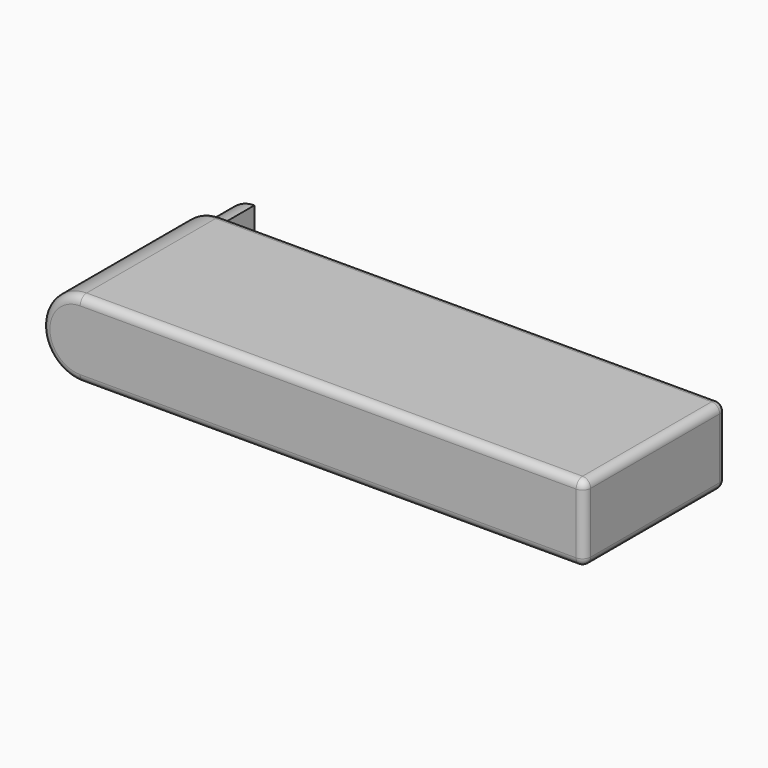
from build123d import *

# Parameters (mm, degrees)
F1_DEPTH = 44
F2_R     = 2
F4_DEPTH = 10


with BuildPart() as f1:
    # F0 (on Front) → F1 (new body)
    with BuildSketch(Plane.XZ):
        with BuildLine():
            ThreePointArc((-68.716378, -9.5), (-61.998863, -6.717514), (-59.216378, 0))
            ThreePointArc((-59.216378, 0), (-61.998863, 6.717514), (-68.716378, 9.5))
            ThreePointArc((-68.716378, 9.5), (-78.216378, 0), (-68.716378, -9.5))
        make_face()
        with BuildLine():
            ThreePointArc((-68.716378, 9.5), (-61.998863, 6.717514), (-59.216378, 0))
            ThreePointArc((-59.216378, 0), (-61.998863, -6.717514), (-68.716378, -9.5))
            Line((-68.716378, -9.5), (56.283622, -9.5))
            Line((56.283622, -9.5), (56.283622, 9.5))
            Line((56.283622, 9.5), (-68.716378, 9.5))
        make_face()
    extrude(amount=F1_DEPTH)

    # F2
    f2_edges = [f1.edges().sort_by_distance(p)[0] for p in [
        (-6.216378, -44, 9.5),
        (56.283622, -22, 9.5),
        (56.283622, -22, -9.5),
        (56.283622, -44, 0),
        (56.283622, 0, 0),
        (-6.216378, 0, -9.5),
        (-6.216378, 0, 9.5),
    ]]
    fillet(f2_edges, radius=F2_R)

    # F3 (on face) → F4 (join)
    with BuildSketch(Plane(origin=(0, 0, 0), x_dir=(-1, 0, 0), z_dir=(0, 1, 0))):
        with BuildLine():
            ThreePointArc((68.716378, -7.5), (76.216378, 0), (68.716378, 7.5))
            Line((68.716378, 7.5), (68.716378, -7.5))
        make_face()
    extrude(amount=F4_DEPTH)


solid = f1.part
